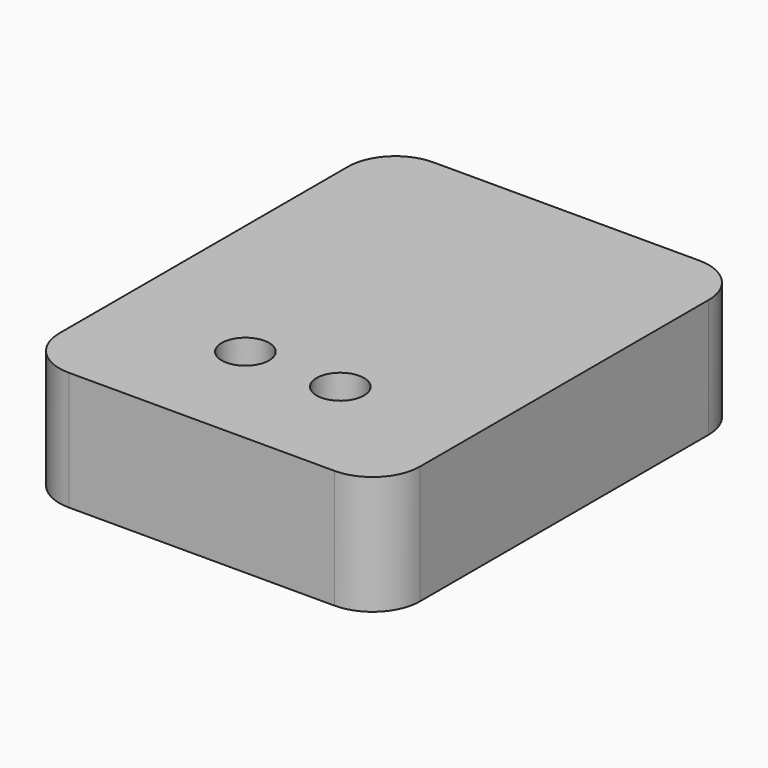
from build123d import *

# Parameters (mm, degrees)
F0_W     = 38
F0_H     = 48
F0_W_2   = 24
F0_H_2   = 34
F1_DEPTH = 12.5
F2_R     = 5
F4_DEPTH = 5
F5_R     = 5
F3_R     = 2.5
F6_DEPTH = 7.5
F8_DEPTH = 5


with BuildPart() as f1:
    # F0 (on Top) → F1 (new body)
    with BuildSketch(Plane.XY):
        with Locations((0, 0.012681)):
            Rectangle(F0_W, F0_H)
        with Locations((0, 0.012681)):
            Rectangle(F0_W_2, F0_H_2, mode=Mode.SUBTRACT)
        with Locations((0, 0.012681)):
            Rectangle(F0_W_2, F0_H_2)
    extrude(amount=F1_DEPTH)

    # F2
    f2_edges = [f1.edges().sort_by_distance(p)[0] for p in [
        (-19, -23.987319, 6.25),
        (19, -23.987319, 6.25),
        (19, 24.012681, 6.25),
        (-19, 24.012681, 6.25),
    ]]
    fillet(f2_edges, radius=F2_R)

    # F0 (on Top) → F4 (cut)
    with BuildSketch(Plane.XY):
        with Locations((0, 0.012681)):
            Rectangle(F0_W_2, F0_H_2)
    extrude(amount=F4_DEPTH, mode=Mode.SUBTRACT)

    # F5
    f5_edges = [f1.edges().sort_by_distance(p)[0] for p in [
        (-12, -16.987319, 2.5),
        (12, -16.987319, 2.5),
        (12, 17.012681, 2.5),
        (-12, 17.012681, 2.5),
    ]]
    fillet(f5_edges, radius=F5_R)

    # F3 (on face) → F6 (cut, through all)
    with BuildSketch(Plane.XY.offset(12.5)):
        with Locations((-5, -11.987319)):
            Circle(F3_R)
        with Locations((5, -11.987319)):
            Circle(F3_R)
    extrude(amount=-F6_DEPTH, mode=Mode.SUBTRACT)

    # F7 (on face) → F8 (cut)
    with BuildSketch(Plane(origin=(0, 0, 0), x_dir=(1, 0, 0), z_dir=(0, 0, -1))):
        with BuildLine():
            Line((14, -24.012681), (12, -12.012681))
            ThreePointArc((12, -12.012681), (10.535534, -15.548215), (7, -17.012681))
            Line((7, -17.012681), (-7, -17.012681))
            ThreePointArc((-7, -17.012681), (-10.535534, -15.548215), (-12, -12.012681))
            Line((-12, -12.012681), (-14, -24.012681))
            Line((-14, -24.012681), (14, -24.012681))
        make_face()
    extrude(amount=-F8_DEPTH, mode=Mode.SUBTRACT)


solid = f1.part
